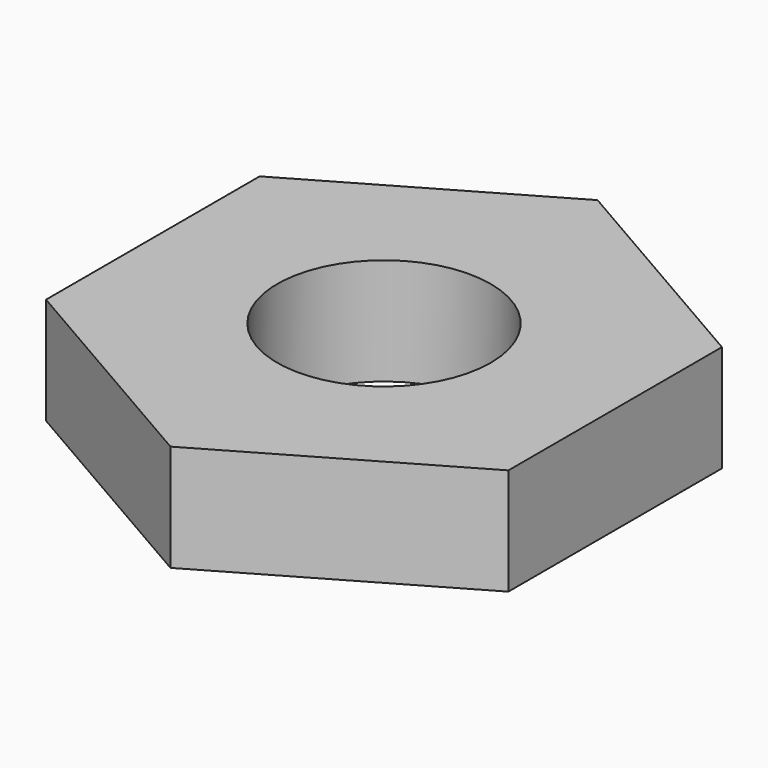
from build123d import *

# Parameters (mm, degrees)
F0_R     = 12
F1_DEPTH = 12


with BuildPart() as f1:
    # F0 (on Top) → F1 (new body)
    with BuildSketch(Plane.XY):
        Polygon((25.980762, 15), (0, 30), (-25.980762, 15), (-25.980762, -15), (0, -30), (25.980762, -15), align=None)
        Circle(F0_R, mode=Mode.SUBTRACT)
        Polygon((25.980762, 15), (0, 30), (-25.980762, 15), (-25.980762, -15), (0, -30), (25.980762, -15), align=None)
        Circle(F0_R, mode=Mode.SUBTRACT)
    extrude(amount=F1_DEPTH)


solid = f1.part
